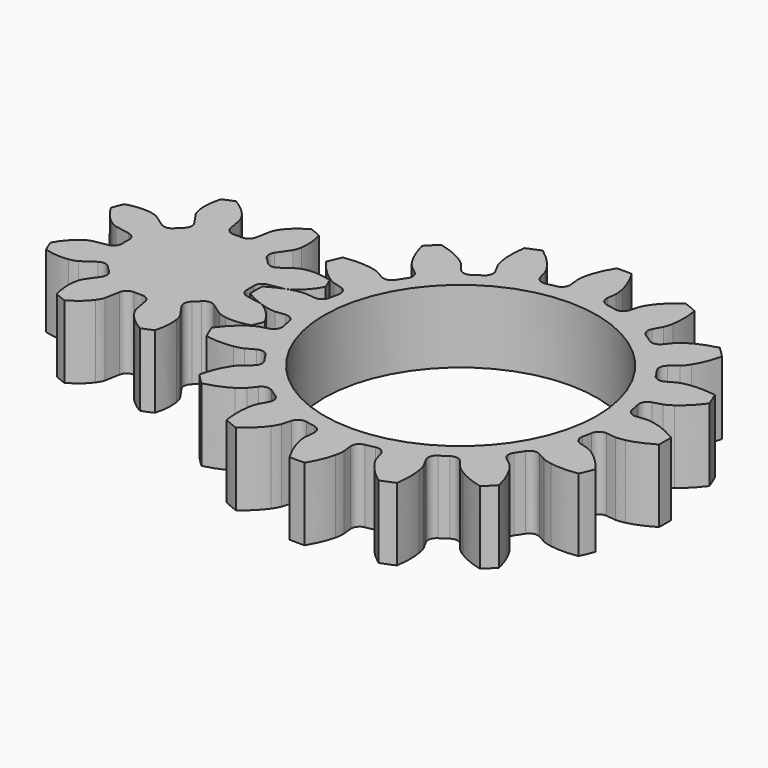
from build123d import *

# Parameters (mm, degrees)
CYLINDER_R                 = 15
CYLINDER_DEPTH             = 10
EXTRUDE_DEPTH              = 8
EXTRUDE001_DEPTH           = 8
EXTRUDE001_PLACEMENT_ANGLE = 22.5


with BuildPart() as cylinder:
    # Cylinder → Cylinder (new body)
    with BuildSketch(Plane.XY):
        Circle(CYLINDER_R)
    extrude(amount=CYLINDER_DEPTH)


with BuildPart() as cut:
    # InvoluteGear → Extrude (new body)
    with BuildSketch(Plane.XY):
        with BuildLine():
            Line((17.674208, -2.007147), (18.715948, -2.12352))
            add(Edge.make_bspline(
                [(18.715948, -2.12352), (18.826423, -2.128654), (19.15862, -2.129514), (19.714241, -2.006277)],
                knots=[0, 0, 0, 0, 1, 1, 1, 1], degree=3))
            add(Edge.make_bspline(
                [(19.714241, -2.006277), (20.377678, -1.856331), (21.328537, -1.53078), (22.487628, -0.830749)],
                knots=[0, 0, 0, 0, 1, 1, 1, 1], degree=3))
            ThreePointArc((22.487628, -0.830749), (22.502969, 0), (22.487628, 0.830749))
            add(Edge.make_bspline(
                [(22.487628, 0.830749), (21.328537, 1.53078), (20.377678, 1.856331), (19.714241, 2.006277)],
                knots=[0, 0, 0, 0, 1, 1, 1, 1], degree=3))
            add(Edge.make_bspline(
                [(19.714241, 2.006277), (19.15862, 2.129514), (18.826423, 2.128654), (18.715948, 2.12352)],
                knots=[0, 0, 0, 0, 1, 1, 1, 1], degree=3))
            Line((18.715948, 2.12352), (17.674208, 2.007147))
            ThreePointArc((17.674208, 2.007147), (17.004546, 2.189692), (16.643971, 2.782781))
            ThreePointArc((16.643971, 2.782781), (16.550752, 3.292149), (16.441948, 3.798418))
            ThreePointArc((16.441948, 3.798418), (16.548111, 4.484347), (17.09694, 4.909265))
            Line((17.09694, 4.909265), (18.103917, 5.200407))
            add(Edge.make_bspline(
                [(18.103917, 5.200407), (18.207948, 5.237941), (18.515187, 5.364272), (18.981353, 5.690756)],
                knots=[0, 0, 0, 0, 1, 1, 1, 1], degree=3))
            add(Edge.make_bspline(
                [(18.981353, 5.690756), (19.536907, 6.083174), (20.290803, 6.747822), (21.093773, 7.838131)],
                knots=[0, 0, 0, 0, 1, 1, 1, 1], degree=3))
            ThreePointArc((21.093773, 7.838131), (20.790033, 8.611514), (20.457945, 9.373154))
            add(Edge.make_bspline(
                [(20.457945, 9.373154), (19.119195, 9.576334), (18.116133, 9.513226), (17.445815, 9.397871)],
                knots=[0, 0, 0, 0, 1, 1, 1, 1], degree=3))
            add(Edge.make_bspline(
                [(17.445815, 9.397871), (16.885327, 9.299101), (16.578747, 9.17118), (16.478645, 9.12416)],
                knots=[0, 0, 0, 0, 1, 1, 1, 1], degree=3))
            Line((16.478645, 9.12416), (15.560737, 8.617988))
            ThreePointArc((15.560737, 8.617988), (14.872193, 8.53037), (14.3121, 8.940326))
            ThreePointArc((14.3121, 8.940326), (14.03105, 9.375248), (13.736788, 9.801341))
            ThreePointArc((13.736788, 9.801341), (13.572376, 10.475684), (13.916819, 11.078285))
            Line((13.916819, 11.078285), (14.735729, 11.732619))
            add(Edge.make_bspline(
                [(14.735729, 11.732619), (14.817477, 11.807106), (15.052984, 12.041396), (15.358726, 12.521422)],
                knots=[0, 0, 0, 0, 1, 1, 1, 1], degree=3))
            add(Edge.make_bspline(
                [(15.358726, 12.521422), (15.721819, 13.09657), (16.163978, 13.999128), (16.488582, 15.313726)],
                knots=[0, 0, 0, 0, 1, 1, 1, 1], degree=3))
            ThreePointArc((16.488582, 15.313726), (15.912002, 15.912002), (15.313726, 16.488582))
            add(Edge.make_bspline(
                [(15.313726, 16.488582), (13.999128, 16.163978), (13.09657, 15.721819), (12.521422, 15.358726)],
                knots=[0, 0, 0, 0, 1, 1, 1, 1], degree=3))
            add(Edge.make_bspline(
                [(12.521422, 15.358726), (12.041396, 15.052984), (11.807106, 14.817477), (11.732619, 14.735729)],
                knots=[0, 0, 0, 0, 1, 1, 1, 1], degree=3))
            Line((11.732619, 14.735729), (11.078285, 13.916819))
            ThreePointArc((11.078285, 13.916819), (10.475684, 13.572376), (9.801341, 13.736788))
            ThreePointArc((9.801341, 13.736788), (9.375248, 14.03105), (8.940326, 14.3121))
            ThreePointArc((8.940326, 14.3121), (8.53037, 14.872193), (8.617988, 15.560737))
            Line((8.617988, 15.560737), (9.12416, 16.478645))
            add(Edge.make_bspline(
                [(9.12416, 16.478645), (9.17118, 16.578747), (9.299101, 16.885327), (9.397871, 17.445815)],
                knots=[0, 0, 0, 0, 1, 1, 1, 1], degree=3))
            add(Edge.make_bspline(
                [(9.397871, 17.445815), (9.513226, 18.116133), (9.576334, 19.119195), (9.373154, 20.457945)],
                knots=[0, 0, 0, 0, 1, 1, 1, 1], degree=3))
            ThreePointArc((9.373154, 20.457945), (8.611514, 20.790033), (7.838131, 21.093773))
            add(Edge.make_bspline(
                [(7.838131, 21.093773), (6.747822, 20.290803), (6.083174, 19.536907), (5.690756, 18.981353)],
                knots=[0, 0, 0, 0, 1, 1, 1, 1], degree=3))
            add(Edge.make_bspline(
                [(5.690756, 18.981353), (5.364272, 18.515187), (5.237941, 18.207948), (5.200407, 18.103917)],
                knots=[0, 0, 0, 0, 1, 1, 1, 1], degree=3))
            Line((5.200407, 18.103917), (4.909265, 17.09694))
            ThreePointArc((4.909265, 17.09694), (4.484347, 16.548111), (3.798418, 16.441948))
            ThreePointArc((3.798418, 16.441948), (3.292149, 16.550752), (2.782781, 16.643971))
            ThreePointArc((2.782781, 16.643971), (2.189692, 17.004546), (2.007147, 17.674208))
            Line((2.007147, 17.674208), (2.12352, 18.715948))
            add(Edge.make_bspline(
                [(2.12352, 18.715948), (2.128654, 18.826423), (2.129514, 19.15862), (2.006277, 19.714241)],
                knots=[0, 0, 0, 0, 1, 1, 1, 1], degree=3))
            add(Edge.make_bspline(
                [(2.006277, 19.714241), (1.856331, 20.377678), (1.53078, 21.328537), (0.830749, 22.487628)],
                knots=[0, 0, 0, 0, 1, 1, 1, 1], degree=3))
            ThreePointArc((0.830749, 22.487628), (0, 22.502969), (-0.830749, 22.487628))
            add(Edge.make_bspline(
                [(-0.830749, 22.487628), (-1.53078, 21.328537), (-1.856331, 20.377678), (-2.006277, 19.714241)],
                knots=[0, 0, 0, 0, 1, 1, 1, 1], degree=3))
            add(Edge.make_bspline(
                [(-2.006277, 19.714241), (-2.129514, 19.15862), (-2.128654, 18.826423), (-2.12352, 18.715948)],
                knots=[0, 0, 0, 0, 1, 1, 1, 1], degree=3))
            Line((-2.12352, 18.715948), (-2.007147, 17.674208))
            ThreePointArc((-2.007147, 17.674208), (-2.189692, 17.004546), (-2.782781, 16.643971))
            ThreePointArc((-2.782781, 16.643971), (-3.292149, 16.550752), (-3.798418, 16.441948))
            ThreePointArc((-3.798418, 16.441948), (-4.484347, 16.548111), (-4.909265, 17.09694))
            Line((-4.909265, 17.09694), (-5.200407, 18.103917))
            add(Edge.make_bspline(
                [(-5.200407, 18.103917), (-5.237941, 18.207948), (-5.364272, 18.515187), (-5.690756, 18.981353)],
                knots=[0, 0, 0, 0, 1, 1, 1, 1], degree=3))
            add(Edge.make_bspline(
                [(-5.690756, 18.981353), (-6.083174, 19.536907), (-6.747822, 20.290803), (-7.838131, 21.093773)],
                knots=[0, 0, 0, 0, 1, 1, 1, 1], degree=3))
            ThreePointArc((-7.838131, 21.093773), (-8.611514, 20.790033), (-9.373154, 20.457945))
            add(Edge.make_bspline(
                [(-9.373154, 20.457945), (-9.576334, 19.119195), (-9.513226, 18.116133), (-9.397871, 17.445815)],
                knots=[0, 0, 0, 0, 1, 1, 1, 1], degree=3))
            add(Edge.make_bspline(
                [(-9.397871, 17.445815), (-9.299101, 16.885327), (-9.17118, 16.578747), (-9.12416, 16.478645)],
                knots=[0, 0, 0, 0, 1, 1, 1, 1], degree=3))
            Line((-9.12416, 16.478645), (-8.617988, 15.560737))
            ThreePointArc((-8.617988, 15.560737), (-8.53037, 14.872193), (-8.940326, 14.3121))
            ThreePointArc((-8.940326, 14.3121), (-9.375248, 14.03105), (-9.801341, 13.736788))
            ThreePointArc((-9.801341, 13.736788), (-10.475684, 13.572376), (-11.078285, 13.916819))
            Line((-11.078285, 13.916819), (-11.732619, 14.735729))
            add(Edge.make_bspline(
                [(-11.732619, 14.735729), (-11.807106, 14.817477), (-12.041396, 15.052984), (-12.521422, 15.358726)],
                knots=[0, 0, 0, 0, 1, 1, 1, 1], degree=3))
            add(Edge.make_bspline(
                [(-12.521422, 15.358726), (-13.09657, 15.721819), (-13.999128, 16.163978), (-15.313726, 16.488582)],
                knots=[0, 0, 0, 0, 1, 1, 1, 1], degree=3))
            ThreePointArc((-15.313726, 16.488582), (-15.912002, 15.912002), (-16.488582, 15.313726))
            add(Edge.make_bspline(
                [(-16.488582, 15.313726), (-16.163978, 13.999128), (-15.721819, 13.09657), (-15.358726, 12.521422)],
                knots=[0, 0, 0, 0, 1, 1, 1, 1], degree=3))
            add(Edge.make_bspline(
                [(-15.358726, 12.521422), (-15.052984, 12.041396), (-14.817477, 11.807106), (-14.735729, 11.732619)],
                knots=[0, 0, 0, 0, 1, 1, 1, 1], degree=3))
            Line((-14.735729, 11.732619), (-13.916819, 11.078285))
            ThreePointArc((-13.916819, 11.078285), (-13.572376, 10.475684), (-13.736788, 9.801341))
            ThreePointArc((-13.736788, 9.801341), (-14.03105, 9.375248), (-14.3121, 8.940326))
            ThreePointArc((-14.3121, 8.940326), (-14.872193, 8.53037), (-15.560737, 8.617988))
            Line((-15.560737, 8.617988), (-16.478645, 9.12416))
            add(Edge.make_bspline(
                [(-16.478645, 9.12416), (-16.578747, 9.17118), (-16.885327, 9.299101), (-17.445815, 9.397871)],
                knots=[0, 0, 0, 0, 1, 1, 1, 1], degree=3))
            add(Edge.make_bspline(
                [(-17.445815, 9.397871), (-18.116133, 9.513226), (-19.119195, 9.576334), (-20.457945, 9.373154)],
                knots=[0, 0, 0, 0, 1, 1, 1, 1], degree=3))
            ThreePointArc((-20.457945, 9.373154), (-20.790033, 8.611514), (-21.093773, 7.838131))
            add(Edge.make_bspline(
                [(-21.093773, 7.838131), (-20.290803, 6.747822), (-19.536907, 6.083174), (-18.981353, 5.690756)],
                knots=[0, 0, 0, 0, 1, 1, 1, 1], degree=3))
            add(Edge.make_bspline(
                [(-18.981353, 5.690756), (-18.515187, 5.364272), (-18.207948, 5.237941), (-18.103917, 5.200407)],
                knots=[0, 0, 0, 0, 1, 1, 1, 1], degree=3))
            Line((-18.103917, 5.200407), (-17.09694, 4.909265))
            ThreePointArc((-17.09694, 4.909265), (-16.548111, 4.484347), (-16.441948, 3.798418))
            ThreePointArc((-16.441948, 3.798418), (-16.550752, 3.292149), (-16.643971, 2.782781))
            ThreePointArc((-16.643971, 2.782781), (-17.004546, 2.189692), (-17.674208, 2.007147))
            Line((-17.674208, 2.007147), (-18.715948, 2.12352))
            add(Edge.make_bspline(
                [(-18.715948, 2.12352), (-18.826423, 2.128654), (-19.15862, 2.129514), (-19.714241, 2.006277)],
                knots=[0, 0, 0, 0, 1, 1, 1, 1], degree=3))
            add(Edge.make_bspline(
                [(-19.714241, 2.006277), (-20.377678, 1.856331), (-21.328537, 1.53078), (-22.487628, 0.830749)],
                knots=[0, 0, 0, 0, 1, 1, 1, 1], degree=3))
            ThreePointArc((-22.487628, 0.830749), (-22.502969, 0), (-22.487628, -0.830749))
            add(Edge.make_bspline(
                [(-22.487628, -0.830749), (-21.328537, -1.53078), (-20.377678, -1.856331), (-19.714241, -2.006277)],
                knots=[0, 0, 0, 0, 1, 1, 1, 1], degree=3))
            add(Edge.make_bspline(
                [(-19.714241, -2.006277), (-19.15862, -2.129514), (-18.826423, -2.128654), (-18.715948, -2.12352)],
                knots=[0, 0, 0, 0, 1, 1, 1, 1], degree=3))
            Line((-18.715948, -2.12352), (-17.674208, -2.007147))
            ThreePointArc((-17.674208, -2.007147), (-17.004546, -2.189692), (-16.643971, -2.782781))
            ThreePointArc((-16.643971, -2.782781), (-16.550752, -3.292149), (-16.441948, -3.798418))
            ThreePointArc((-16.441948, -3.798418), (-16.548111, -4.484347), (-17.09694, -4.909265))
            Line((-17.09694, -4.909265), (-18.103917, -5.200407))
            add(Edge.make_bspline(
                [(-18.103917, -5.200407), (-18.207948, -5.237941), (-18.515187, -5.364272), (-18.981353, -5.690756)],
                knots=[0, 0, 0, 0, 1, 1, 1, 1], degree=3))
            add(Edge.make_bspline(
                [(-18.981353, -5.690756), (-19.536907, -6.083174), (-20.290803, -6.747822), (-21.093773, -7.838131)],
                knots=[0, 0, 0, 0, 1, 1, 1, 1], degree=3))
            ThreePointArc((-21.093773, -7.838131), (-20.790033, -8.611514), (-20.457945, -9.373154))
            add(Edge.make_bspline(
                [(-20.457945, -9.373154), (-19.119195, -9.576334), (-18.116133, -9.513226), (-17.445815, -9.397871)],
                knots=[0, 0, 0, 0, 1, 1, 1, 1], degree=3))
            add(Edge.make_bspline(
                [(-17.445815, -9.397871), (-16.885327, -9.299101), (-16.578747, -9.17118), (-16.478645, -9.12416)],
                knots=[0, 0, 0, 0, 1, 1, 1, 1], degree=3))
            Line((-16.478645, -9.12416), (-15.560737, -8.617988))
            ThreePointArc((-15.560737, -8.617988), (-14.872193, -8.53037), (-14.3121, -8.940326))
            ThreePointArc((-14.3121, -8.940326), (-14.03105, -9.375248), (-13.736788, -9.801341))
            ThreePointArc((-13.736788, -9.801341), (-13.572376, -10.475684), (-13.916819, -11.078285))
            Line((-13.916819, -11.078285), (-14.735729, -11.732619))
            add(Edge.make_bspline(
                [(-14.735729, -11.732619), (-14.817477, -11.807106), (-15.052984, -12.041396), (-15.358726, -12.521422)],
                knots=[0, 0, 0, 0, 1, 1, 1, 1], degree=3))
            add(Edge.make_bspline(
                [(-15.358726, -12.521422), (-15.721819, -13.09657), (-16.163978, -13.999128), (-16.488582, -15.313726)],
                knots=[0, 0, 0, 0, 1, 1, 1, 1], degree=3))
            ThreePointArc((-16.488582, -15.313726), (-15.912002, -15.912002), (-15.313726, -16.488582))
            add(Edge.make_bspline(
                [(-15.313726, -16.488582), (-13.999128, -16.163978), (-13.09657, -15.721819), (-12.521422, -15.358726)],
                knots=[0, 0, 0, 0, 1, 1, 1, 1], degree=3))
            add(Edge.make_bspline(
                [(-12.521422, -15.358726), (-12.041396, -15.052984), (-11.807106, -14.817477), (-11.732619, -14.735729)],
                knots=[0, 0, 0, 0, 1, 1, 1, 1], degree=3))
            Line((-11.732619, -14.735729), (-11.078285, -13.916819))
            ThreePointArc((-11.078285, -13.916819), (-10.475684, -13.572376), (-9.801341, -13.736788))
            ThreePointArc((-9.801341, -13.736788), (-9.375248, -14.03105), (-8.940326, -14.3121))
            ThreePointArc((-8.940326, -14.3121), (-8.53037, -14.872193), (-8.617988, -15.560737))
            Line((-8.617988, -15.560737), (-9.12416, -16.478645))
            add(Edge.make_bspline(
                [(-9.12416, -16.478645), (-9.17118, -16.578747), (-9.299101, -16.885327), (-9.397871, -17.445815)],
                knots=[0, 0, 0, 0, 1, 1, 1, 1], degree=3))
            add(Edge.make_bspline(
                [(-9.397871, -17.445815), (-9.513226, -18.116133), (-9.576334, -19.119195), (-9.373154, -20.457945)],
                knots=[0, 0, 0, 0, 1, 1, 1, 1], degree=3))
            ThreePointArc((-9.373154, -20.457945), (-8.611514, -20.790033), (-7.838131, -21.093773))
            add(Edge.make_bspline(
                [(-7.838131, -21.093773), (-6.747822, -20.290803), (-6.083174, -19.536907), (-5.690756, -18.981353)],
                knots=[0, 0, 0, 0, 1, 1, 1, 1], degree=3))
            add(Edge.make_bspline(
                [(-5.690756, -18.981353), (-5.364272, -18.515187), (-5.237941, -18.207948), (-5.200407, -18.103917)],
                knots=[0, 0, 0, 0, 1, 1, 1, 1], degree=3))
            Line((-5.200407, -18.103917), (-4.909265, -17.09694))
            ThreePointArc((-4.909265, -17.09694), (-4.484347, -16.548111), (-3.798418, -16.441948))
            ThreePointArc((-3.798418, -16.441948), (-3.292149, -16.550752), (-2.782781, -16.643971))
            ThreePointArc((-2.782781, -16.643971), (-2.189692, -17.004546), (-2.007147, -17.674208))
            Line((-2.007147, -17.674208), (-2.12352, -18.715948))
            add(Edge.make_bspline(
                [(-2.12352, -18.715948), (-2.128654, -18.826423), (-2.129514, -19.15862), (-2.006277, -19.714241)],
                knots=[0, 0, 0, 0, 1, 1, 1, 1], degree=3))
            add(Edge.make_bspline(
                [(-2.006277, -19.714241), (-1.856331, -20.377678), (-1.53078, -21.328537), (-0.830749, -22.487628)],
                knots=[0, 0, 0, 0, 1, 1, 1, 1], degree=3))
            ThreePointArc((-0.830749, -22.487628), (0, -22.502969), (0.830749, -22.487628))
            add(Edge.make_bspline(
                [(0.830749, -22.487628), (1.53078, -21.328537), (1.856331, -20.377678), (2.006277, -19.714241)],
                knots=[0, 0, 0, 0, 1, 1, 1, 1], degree=3))
            add(Edge.make_bspline(
                [(2.006277, -19.714241), (2.129514, -19.15862), (2.128654, -18.826423), (2.12352, -18.715948)],
                knots=[0, 0, 0, 0, 1, 1, 1, 1], degree=3))
            Line((2.12352, -18.715948), (2.007147, -17.674208))
            ThreePointArc((2.007147, -17.674208), (2.189692, -17.004546), (2.782781, -16.643971))
            ThreePointArc((2.782781, -16.643971), (3.292149, -16.550752), (3.798418, -16.441948))
            ThreePointArc((3.798418, -16.441948), (4.484347, -16.548111), (4.909265, -17.09694))
            Line((4.909265, -17.09694), (5.200407, -18.103917))
            add(Edge.make_bspline(
                [(5.200407, -18.103917), (5.237941, -18.207948), (5.364272, -18.515187), (5.690756, -18.981353)],
                knots=[0, 0, 0, 0, 1, 1, 1, 1], degree=3))
            add(Edge.make_bspline(
                [(5.690756, -18.981353), (6.083174, -19.536907), (6.747822, -20.290803), (7.838131, -21.093773)],
                knots=[0, 0, 0, 0, 1, 1, 1, 1], degree=3))
            ThreePointArc((7.838131, -21.093773), (8.611514, -20.790033), (9.373154, -20.457945))
            add(Edge.make_bspline(
                [(9.373154, -20.457945), (9.576334, -19.119195), (9.513226, -18.116133), (9.397871, -17.445815)],
                knots=[0, 0, 0, 0, 1, 1, 1, 1], degree=3))
            add(Edge.make_bspline(
                [(9.397871, -17.445815), (9.299101, -16.885327), (9.17118, -16.578747), (9.12416, -16.478645)],
                knots=[0, 0, 0, 0, 1, 1, 1, 1], degree=3))
            Line((9.12416, -16.478645), (8.617988, -15.560737))
            ThreePointArc((8.617988, -15.560737), (8.53037, -14.872193), (8.940326, -14.3121))
            ThreePointArc((8.940326, -14.3121), (9.375248, -14.03105), (9.801341, -13.736788))
            ThreePointArc((9.801341, -13.736788), (10.475684, -13.572376), (11.078285, -13.916819))
            Line((11.078285, -13.916819), (11.732619, -14.735729))
            add(Edge.make_bspline(
                [(11.732619, -14.735729), (11.807106, -14.817477), (12.041396, -15.052984), (12.521422, -15.358726)],
                knots=[0, 0, 0, 0, 1, 1, 1, 1], degree=3))
            add(Edge.make_bspline(
                [(12.521422, -15.358726), (13.09657, -15.721819), (13.999128, -16.163978), (15.313726, -16.488582)],
                knots=[0, 0, 0, 0, 1, 1, 1, 1], degree=3))
            ThreePointArc((15.313726, -16.488582), (15.912002, -15.912002), (16.488582, -15.313726))
            add(Edge.make_bspline(
                [(16.488582, -15.313726), (16.163978, -13.999128), (15.721819, -13.09657), (15.358726, -12.521422)],
                knots=[0, 0, 0, 0, 1, 1, 1, 1], degree=3))
            add(Edge.make_bspline(
                [(15.358726, -12.521422), (15.052984, -12.041396), (14.817477, -11.807106), (14.735729, -11.732619)],
                knots=[0, 0, 0, 0, 1, 1, 1, 1], degree=3))
            Line((14.735729, -11.732619), (13.916819, -11.078285))
            ThreePointArc((13.916819, -11.078285), (13.572376, -10.475684), (13.736788, -9.801341))
            ThreePointArc((13.736788, -9.801341), (14.03105, -9.375248), (14.3121, -8.940326))
            ThreePointArc((14.3121, -8.940326), (14.872193, -8.53037), (15.560737, -8.617988))
            Line((15.560737, -8.617988), (16.478645, -9.12416))
            add(Edge.make_bspline(
                [(16.478645, -9.12416), (16.578747, -9.17118), (16.885327, -9.299101), (17.445815, -9.397871)],
                knots=[0, 0, 0, 0, 1, 1, 1, 1], degree=3))
            add(Edge.make_bspline(
                [(17.445815, -9.397871), (18.116133, -9.513226), (19.119195, -9.576334), (20.457945, -9.373154)],
                knots=[0, 0, 0, 0, 1, 1, 1, 1], degree=3))
            ThreePointArc((20.457945, -9.373154), (20.790033, -8.611514), (21.093773, -7.838131))
            add(Edge.make_bspline(
                [(21.093773, -7.838131), (20.290803, -6.747822), (19.536907, -6.083174), (18.981353, -5.690756)],
                knots=[0, 0, 0, 0, 1, 1, 1, 1], degree=3))
            add(Edge.make_bspline(
                [(18.981353, -5.690756), (18.515187, -5.364272), (18.207948, -5.237941), (18.103917, -5.200407)],
                knots=[0, 0, 0, 0, 1, 1, 1, 1], degree=3))
            Line((18.103917, -5.200407), (17.09694, -4.909265))
            ThreePointArc((17.09694, -4.909265), (16.548111, -4.484347), (16.441948, -3.798418))
            ThreePointArc((16.441948, -3.798418), (16.550752, -3.292149), (16.643971, -2.782781))
            ThreePointArc((16.643971, -2.782781), (17.004546, -2.189692), (17.674208, -2.007147))
        make_face()
    extrude(amount=EXTRUDE_DEPTH)

    # Cut: cut Cylinder
    add(cylinder.part, mode=Mode.SUBTRACT)


with BuildPart() as extrude001:
    # InvoluteGear001 → Extrude001 (new body)
    with BuildSketch(Plane.XY):
        with BuildLine():
            Line((7.583619, -1.626335), (9.226112, -1.976129))
            add(Edge.make_bspline(
                [(9.226112, -1.976129), (9.323588, -1.988042), (9.615448, -2.006593), (10.112858, -1.891348)],
                knots=[0, 0, 0, 0, 1, 1, 1, 1], degree=3))
            add(Edge.make_bspline(
                [(10.112858, -1.891348), (10.701098, -1.749257), (11.528547, -1.419904), (12.486309, -0.674071)],
                knots=[0, 0, 0, 0, 1, 1, 1, 1], degree=3))
            ThreePointArc((12.486309, -0.674071), (12.504498, 0), (12.486309, 0.674071))
            add(Edge.make_bspline(
                [(12.486309, 0.674071), (11.528547, 1.419904), (10.701098, 1.749257), (10.112858, 1.891348)],
                knots=[0, 0, 0, 0, 1, 1, 1, 1], degree=3))
            add(Edge.make_bspline(
                [(10.112858, 1.891348), (9.615448, 2.006593), (9.323588, 1.988042), (9.226112, 1.976129)],
                knots=[0, 0, 0, 0, 1, 1, 1, 1], degree=3))
            Line((9.226112, 1.976129), (7.583619, 1.626335))
            ThreePointArc((7.583619, 1.626335), (6.928673, 1.725171), (6.502518, 2.232237))
            ThreePointArc((6.502518, 2.232237), (6.351672, 2.630949), (6.176404, 3.019545))
            ThreePointArc((6.176404, 3.019545), (6.119192, 3.679432), (6.512421, 4.212436))
            Line((6.512421, 4.212436), (7.92118, 5.126512))
            add(Edge.make_bspline(
                [(7.92118, 5.126512), (7.99853, 5.187015), (8.218024, 5.380273), (8.488255, 5.813485)],
                knots=[0, 0, 0, 0, 1, 1, 1, 1], degree=3))
            add(Edge.make_bspline(
                [(8.488255, 5.813485), (8.803731, 6.329908), (9.155937, 7.14789), (9.305795, 8.352514)],
                knots=[0, 0, 0, 0, 1, 1, 1, 1], degree=3))
            ThreePointArc((9.305795, 8.352514), (8.842015, 8.842015), (8.352514, 9.305795))
            add(Edge.make_bspline(
                [(8.352514, 9.305795), (7.14789, 9.155937), (6.329908, 8.803731), (5.813485, 8.488255)],
                knots=[0, 0, 0, 0, 1, 1, 1, 1], degree=3))
            add(Edge.make_bspline(
                [(5.813485, 8.488255), (5.380273, 8.218024), (5.187015, 7.99853), (5.126512, 7.92118)],
                knots=[0, 0, 0, 0, 1, 1, 1, 1], degree=3))
            Line((5.126512, 7.92118), (4.212436, 6.512421))
            ThreePointArc((4.212436, 6.512421), (3.679432, 6.119192), (3.019545, 6.176404))
            ThreePointArc((3.019545, 6.176404), (2.630949, 6.351672), (2.232237, 6.502518))
            ThreePointArc((2.232237, 6.502518), (1.725171, 6.928673), (1.626335, 7.583619))
            Line((1.626335, 7.583619), (1.976129, 9.226112))
            add(Edge.make_bspline(
                [(1.976129, 9.226112), (1.988042, 9.323588), (2.006593, 9.615448), (1.891348, 10.112858)],
                knots=[0, 0, 0, 0, 1, 1, 1, 1], degree=3))
            add(Edge.make_bspline(
                [(1.891348, 10.112858), (1.749257, 10.701098), (1.419904, 11.528547), (0.674071, 12.486309)],
                knots=[0, 0, 0, 0, 1, 1, 1, 1], degree=3))
            ThreePointArc((0.674071, 12.486309), (0, 12.504498), (-0.674071, 12.486309))
            add(Edge.make_bspline(
                [(-0.674071, 12.486309), (-1.419904, 11.528547), (-1.749257, 10.701098), (-1.891348, 10.112858)],
                knots=[0, 0, 0, 0, 1, 1, 1, 1], degree=3))
            add(Edge.make_bspline(
                [(-1.891348, 10.112858), (-2.006593, 9.615448), (-1.988042, 9.323588), (-1.976129, 9.226112)],
                knots=[0, 0, 0, 0, 1, 1, 1, 1], degree=3))
            Line((-1.976129, 9.226112), (-1.626335, 7.583619))
            ThreePointArc((-1.626335, 7.583619), (-1.725171, 6.928673), (-2.232237, 6.502518))
            ThreePointArc((-2.232237, 6.502518), (-2.630949, 6.351672), (-3.019545, 6.176404))
            ThreePointArc((-3.019545, 6.176404), (-3.679432, 6.119192), (-4.212436, 6.512421))
            Line((-4.212436, 6.512421), (-5.126512, 7.92118))
            add(Edge.make_bspline(
                [(-5.126512, 7.92118), (-5.187015, 7.99853), (-5.380273, 8.218024), (-5.813485, 8.488255)],
                knots=[0, 0, 0, 0, 1, 1, 1, 1], degree=3))
            add(Edge.make_bspline(
                [(-5.813485, 8.488255), (-6.329908, 8.803731), (-7.14789, 9.155937), (-8.352514, 9.305795)],
                knots=[0, 0, 0, 0, 1, 1, 1, 1], degree=3))
            ThreePointArc((-8.352514, 9.305795), (-8.842015, 8.842015), (-9.305795, 8.352514))
            add(Edge.make_bspline(
                [(-9.305795, 8.352514), (-9.155937, 7.14789), (-8.803731, 6.329908), (-8.488255, 5.813485)],
                knots=[0, 0, 0, 0, 1, 1, 1, 1], degree=3))
            add(Edge.make_bspline(
                [(-8.488255, 5.813485), (-8.218024, 5.380273), (-7.99853, 5.187015), (-7.92118, 5.126512)],
                knots=[0, 0, 0, 0, 1, 1, 1, 1], degree=3))
            Line((-7.92118, 5.126512), (-6.512421, 4.212436))
            ThreePointArc((-6.512421, 4.212436), (-6.119192, 3.679432), (-6.176404, 3.019545))
            ThreePointArc((-6.176404, 3.019545), (-6.351672, 2.630949), (-6.502518, 2.232237))
            ThreePointArc((-6.502518, 2.232237), (-6.928673, 1.725171), (-7.583619, 1.626335))
            Line((-7.583619, 1.626335), (-9.226112, 1.976129))
            add(Edge.make_bspline(
                [(-9.226112, 1.976129), (-9.323588, 1.988042), (-9.615448, 2.006593), (-10.112858, 1.891348)],
                knots=[0, 0, 0, 0, 1, 1, 1, 1], degree=3))
            add(Edge.make_bspline(
                [(-10.112858, 1.891348), (-10.701098, 1.749257), (-11.528547, 1.419904), (-12.486309, 0.674071)],
                knots=[0, 0, 0, 0, 1, 1, 1, 1], degree=3))
            ThreePointArc((-12.486309, 0.674071), (-12.504498, 0), (-12.486309, -0.674071))
            add(Edge.make_bspline(
                [(-12.486309, -0.674071), (-11.528547, -1.419904), (-10.701098, -1.749257), (-10.112858, -1.891348)],
                knots=[0, 0, 0, 0, 1, 1, 1, 1], degree=3))
            add(Edge.make_bspline(
                [(-10.112858, -1.891348), (-9.615448, -2.006593), (-9.323588, -1.988042), (-9.226112, -1.976129)],
                knots=[0, 0, 0, 0, 1, 1, 1, 1], degree=3))
            Line((-9.226112, -1.976129), (-7.583619, -1.626335))
            ThreePointArc((-7.583619, -1.626335), (-6.928673, -1.725171), (-6.502518, -2.232237))
            ThreePointArc((-6.502518, -2.232237), (-6.351672, -2.630949), (-6.176404, -3.019545))
            ThreePointArc((-6.176404, -3.019545), (-6.119192, -3.679432), (-6.512421, -4.212436))
            Line((-6.512421, -4.212436), (-7.92118, -5.126512))
            add(Edge.make_bspline(
                [(-7.92118, -5.126512), (-7.99853, -5.187015), (-8.218024, -5.380273), (-8.488255, -5.813485)],
                knots=[0, 0, 0, 0, 1, 1, 1, 1], degree=3))
            add(Edge.make_bspline(
                [(-8.488255, -5.813485), (-8.803731, -6.329908), (-9.155937, -7.14789), (-9.305795, -8.352514)],
                knots=[0, 0, 0, 0, 1, 1, 1, 1], degree=3))
            ThreePointArc((-9.305795, -8.352514), (-8.842015, -8.842015), (-8.352514, -9.305795))
            add(Edge.make_bspline(
                [(-8.352514, -9.305795), (-7.14789, -9.155937), (-6.329908, -8.803731), (-5.813485, -8.488255)],
                knots=[0, 0, 0, 0, 1, 1, 1, 1], degree=3))
            add(Edge.make_bspline(
                [(-5.813485, -8.488255), (-5.380273, -8.218024), (-5.187015, -7.99853), (-5.126512, -7.92118)],
                knots=[0, 0, 0, 0, 1, 1, 1, 1], degree=3))
            Line((-5.126512, -7.92118), (-4.212436, -6.512421))
            ThreePointArc((-4.212436, -6.512421), (-3.679432, -6.119192), (-3.019545, -6.176404))
            ThreePointArc((-3.019545, -6.176404), (-2.630949, -6.351672), (-2.232237, -6.502518))
            ThreePointArc((-2.232237, -6.502518), (-1.725171, -6.928673), (-1.626335, -7.583619))
            Line((-1.626335, -7.583619), (-1.976129, -9.226112))
            add(Edge.make_bspline(
                [(-1.976129, -9.226112), (-1.988042, -9.323588), (-2.006593, -9.615448), (-1.891348, -10.112858)],
                knots=[0, 0, 0, 0, 1, 1, 1, 1], degree=3))
            add(Edge.make_bspline(
                [(-1.891348, -10.112858), (-1.749257, -10.701098), (-1.419904, -11.528547), (-0.674071, -12.486309)],
                knots=[0, 0, 0, 0, 1, 1, 1, 1], degree=3))
            ThreePointArc((-0.674071, -12.486309), (0, -12.504498), (0.674071, -12.486309))
            add(Edge.make_bspline(
                [(0.674071, -12.486309), (1.419904, -11.528547), (1.749257, -10.701098), (1.891348, -10.112858)],
                knots=[0, 0, 0, 0, 1, 1, 1, 1], degree=3))
            add(Edge.make_bspline(
                [(1.891348, -10.112858), (2.006593, -9.615448), (1.988042, -9.323588), (1.976129, -9.226112)],
                knots=[0, 0, 0, 0, 1, 1, 1, 1], degree=3))
            Line((1.976129, -9.226112), (1.626335, -7.583619))
            ThreePointArc((1.626335, -7.583619), (1.725171, -6.928673), (2.232237, -6.502518))
            ThreePointArc((2.232237, -6.502518), (2.630949, -6.351672), (3.019545, -6.176404))
            ThreePointArc((3.019545, -6.176404), (3.679432, -6.119192), (4.212436, -6.512421))
            Line((4.212436, -6.512421), (5.126512, -7.92118))
            add(Edge.make_bspline(
                [(5.126512, -7.92118), (5.187015, -7.99853), (5.380273, -8.218024), (5.813485, -8.488255)],
                knots=[0, 0, 0, 0, 1, 1, 1, 1], degree=3))
            add(Edge.make_bspline(
                [(5.813485, -8.488255), (6.329908, -8.803731), (7.14789, -9.155937), (8.352514, -9.305795)],
                knots=[0, 0, 0, 0, 1, 1, 1, 1], degree=3))
            ThreePointArc((8.352514, -9.305795), (8.842015, -8.842015), (9.305795, -8.352514))
            add(Edge.make_bspline(
                [(9.305795, -8.352514), (9.155937, -7.14789), (8.803731, -6.329908), (8.488255, -5.813485)],
                knots=[0, 0, 0, 0, 1, 1, 1, 1], degree=3))
            add(Edge.make_bspline(
                [(8.488255, -5.813485), (8.218024, -5.380273), (7.99853, -5.187015), (7.92118, -5.126512)],
                knots=[0, 0, 0, 0, 1, 1, 1, 1], degree=3))
            Line((7.92118, -5.126512), (6.512421, -4.212436))
            ThreePointArc((6.512421, -4.212436), (6.119192, -3.679432), (6.176404, -3.019545))
            ThreePointArc((6.176404, -3.019545), (6.351672, -2.630949), (6.502518, -2.232237))
            ThreePointArc((6.502518, -2.232237), (6.928673, -1.725171), (7.583619, -1.626335))
        make_face()
    extrude(amount=EXTRUDE001_DEPTH)


with BuildPart() as extrude001_1:
    # Extrude001 placement: moved
    add(extrude001.part.moved(Location((-30, 0, 0))).rotate(Axis((-30, 0, 0), (0, 0, 1)), EXTRUDE001_PLACEMENT_ANGLE))


solid = Compound([cut.part, extrude001_1.part])
